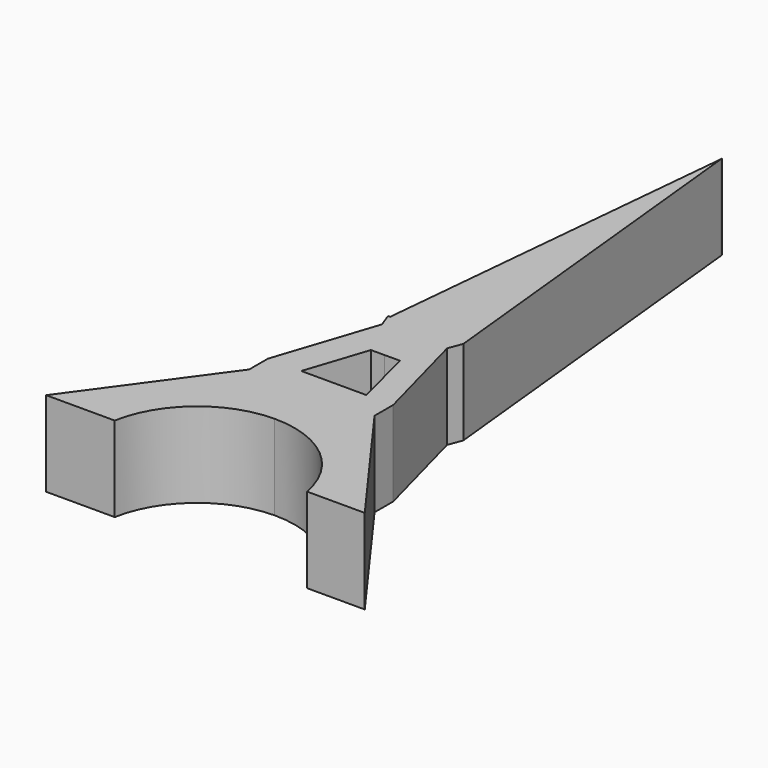
from build123d import *

# Parameters (mm, degrees)
F1_DEPTH = 10.4


with BuildPart() as f1:
    # F0 (on Top) → F1 (new body)
    with BuildSketch(Plane.XY):
        with BuildLine():
            Line((-4.079357492, -33.54818349), (-15.9035338954, -49.8227661161))
            Line((-15.9035338954, -49.8227661161), (-7.5073811521, -49.8227661161))
            ThreePointArc((-7.5073811521, -49.8227661161), (-3.4307509908, -42.7923611226), (4.2001893571, -39.9969618219))
            Line((4.2001893571, -39.9969618219), (4.1740407989, -33.54818349))
            Line((4.1740407989, -33.54818349), (-4.079357492, -33.54818349))
        make_face()
        Polygon((-4.079357492, -30.6924086619), (-4.079357492, -33.54818349), (4.1740407989, -33.54818349), (4.1624611802, -30.6924086619), (0, -30.6924086619), align=None)
        with BuildLine():
            Line((4.1740407989, -33.54818349), (4.2001893571, -39.9969618219))
            ThreePointArc((4.2001893571, -39.9969618219), (11.8908382938, -42.7612981986), (16.0046330774, -49.8227661161))
            Line((16.0046330774, -49.8227661161), (23.0715677593, -49.8227661161))
            Line((23.0715677593, -49.8227661161), (11.2473913559, -33.54818349))
            Line((11.2473913559, -33.54818349), (4.1740407989, -33.54818349))
        make_face()
        Polygon((4.1624611802, -30.6924086619), (4.1740407989, -33.54818349), (11.2473913559, -33.54818349), (11.2473913559, -30.6924086619), (7.9490750323, -30.6924086619), align=None)
        Polygon((0, -18.3358664652), (-4.079357492, -30.6924086619), (0, -30.6924086619), (2.4886846611, -23.1540801165), (4.1318676887, -23.1474173248), (4.1123577736, -18.3358664652), align=None)
        Polygon((-0.6355894134, -16.6400636767), (0, -18.3358664652), (4.1123577736, -18.3358664652), (4.1054816189, -16.6400636767), (0, -16.6400636767), (-0.3704350369, -16.6400636767), align=None)
        Polygon((7.9490750323, -30.6924086619), (11.2473913559, -30.6924086619), (7.9490750323, -18.3358664652), (4.1123577736, -18.3358664652), (4.1318676887, -23.1474173248), (6.0444464418, -23.1396621851), align=None)
        Polygon((4.1054816189, -16.6400636767), (4.1123577736, -18.3358664652), (7.9490750323, -18.3358664652), (8.585, -16.6400636767), align=None)
        Polygon((0, -16.6400636767), (4.1054816189, -16.6400636767), (3.9224692179, 28.494601009), (3.9224331227, 28.5035028206), (-0.3704350369, -16.6400636767), align=None)
        Polygon((3.9224692179, 28.494601009), (4.1054816189, -16.6400636767), (8.585, -16.6400636767), (3.931837242, 28.6023960235), align=None)
        Polygon((3.9224331227, 28.5035028206), (3.9224692179, 28.494601009), (3.931837242, 28.6023960235), align=None)
        Polygon((3.9220288155, 28.6032133925), (3.9224331227, 28.5035028206), (3.931837242, 28.6023960235), align=None)
        Polygon((3.9220288155, 28.6032133925), (3.931837242, 28.6023960235), (3.9215444875, 28.7226587606), align=None)
        Polygon((3.911662692, 28.6040772363), (3.9220288155, 28.6032133925), (3.9215444875, 28.7226587606), align=None)
    extrude(amount=F1_DEPTH)


solid = f1.part
